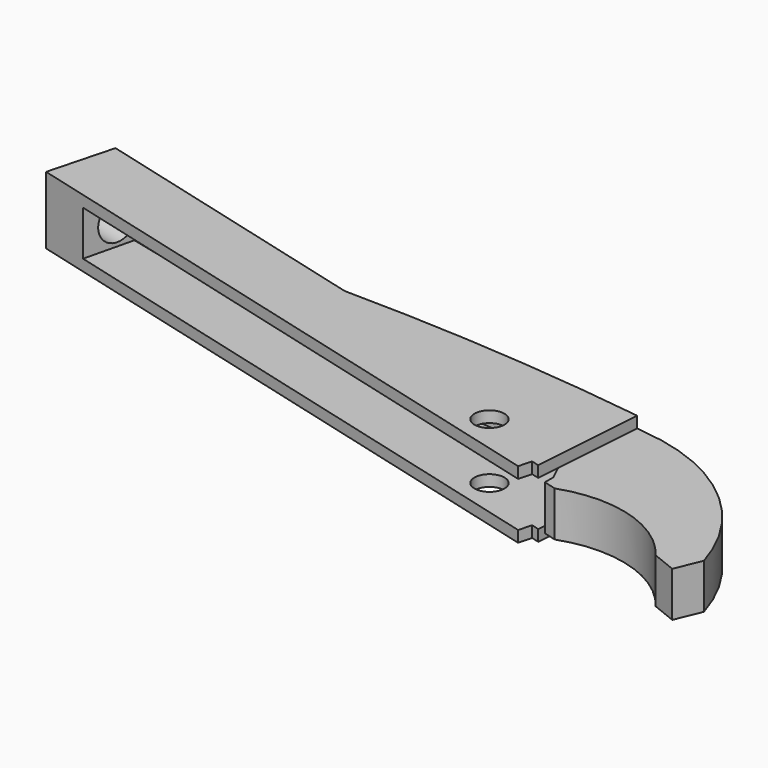
from build123d import *

# Parameters (mm, degrees)
SKETCH005_R     = 4
PAD003_DEPTH    = 9
POCKET002_DEPTH = 453.7991983662
POCKET003_DEPTH = 6
SKETCH009_R     = 5
POCKET004_DEPTH = 14


with BuildPart() as part:
    # Sketch005 → Pad003 (new body, symmetric)
    with BuildSketch(Plane.XY):
        with BuildLine():
            Line((129.191528, 8.290887), (132.069077, 15.263238))
            ThreePointArc((132.069077, 15.263238), (116.7747181113, 39.3905983189), (91.2212646928, 52.1604044318))
            ThreePointArc((91.2212646928, 52.1604044318), (46.3377236615, 57.1709115012), (1.21394, 59.036812))
            Line((-76.4001571445, 79.5700210048), (1.21394, 59.036812))
            Line((-76.4001571445, 79.5700210048), (-81.0037719697, 62.168678225))
            Line((-81.0037719697, 62.168678225), (78.772919, 19.898932))
            Line((78.772919, 19.898932), (79.701164, 23.416142))
            Line((79.701164, 23.416142), (87.415985, 21.315922))
            ThreePointArc((122.691841, 10.904919), (106.7527492861, 21.8666290226), (87.415985, 21.315922))
            Line((129.191528, 8.290887), (122.691841, 10.904919))
        make_face()
        with Locations((60.86446, 32.72789)):
            Circle(SKETCH005_R, mode=Mode.SUBTRACT)
    extrude(amount=PAD003_DEPTH, both=True)

    # Sketch007 → Pocket002 (cut, through all)
    with BuildSketch(Plane.XY.offset(6)):
        with BuildLine():
            Line((81.633926, 20.987476), (84.018715, 54.669346))
            Line((84.018715, 54.669346), (91.8155354317, 53.6254730737))
            ThreePointArc((133.5781814805, 14.8051820085), (118.8696341007, 40.855964108), (91.8155354317, 53.6254730737))
            Line((133.5781814805, 14.8051820085), (129.179794, 5.660023))
            Line((129.179794, 5.660023), (81.633926, 20.987476))
        make_face()
    pocket002 = extrude(amount=POCKET002_DEPTH, mode=Mode.SUBTRACT)

    # Mirrored: Pocket002 across XY
    add(pocket002.mirror(Plane.XY), mode=Mode.SUBTRACT)

    # Sketch008 → Pocket003 (cut, symmetric)
    with BuildSketch(Plane.XY):
        with BuildLine():
            Line((84.0540226162, 25.0066254975), (76.6128766006, 40.9426462345))
            ThreePointArc((76.6128766006, 40.9426462345), (71.2066025484, 47.6653428321), (63.3038481091, 51.1249556635))
            Line((63.3038481091, 51.1249556635), (2.088246, 55.768429))
            Line((2.088246, 55.768429), (-65.343964, 72.03257))
            Line((-65.343964, 72.03257), (-69.729797, 53.758251))
            Line((-69.729797, 53.758251), (84.0540226162, 17.940607))
            Line((84.0540226162, 17.940607), (84.0540226162, 25.0066254975))
        make_face()
    extrude(amount=POCKET003_DEPTH, both=True, mode=Mode.SUBTRACT)

    # Sketch009 (on DatumPlane) → Pocket004 (cut)
    with BuildSketch(Plane(origin=(-76.4001571445, 79.5700210048, 0), x_dir=(-0.2557563792, -0.9667412655, 0), z_dir=(-0.9667412655, 0.2557563792, 0))):
        with Locations((9, 0)):
            Circle(SKETCH009_R)
    extrude(amount=-POCKET004_DEPTH, mode=Mode.SUBTRACT)


solid = part.part
